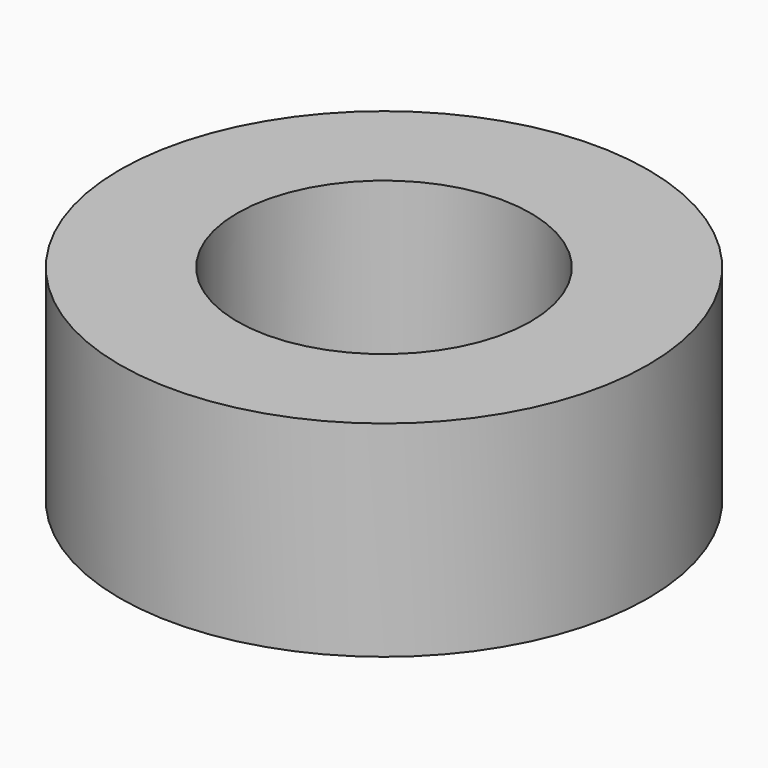
from build123d import *

# Parameters (mm, degrees)
SKETCH_R   = 9
SKETCH_R_2 = 5
PAD_DEPTH  = 7


with BuildPart() as part:
    # Sketch → Pad (new body)
    with BuildSketch(Plane.XY):
        Circle(SKETCH_R)
        Circle(SKETCH_R_2, mode=Mode.SUBTRACT)
    extrude(amount=PAD_DEPTH)


solid = part.part
